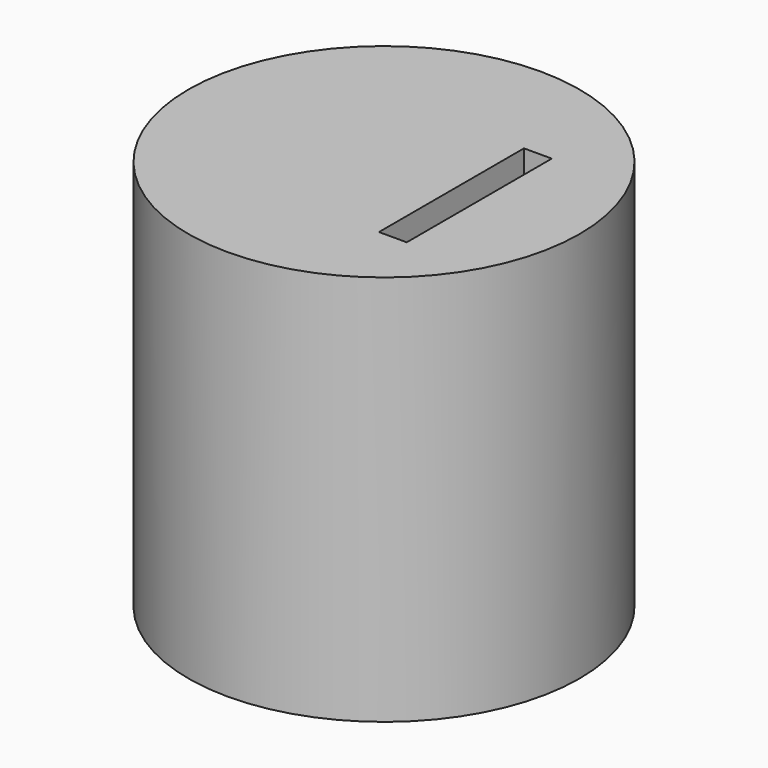
from build123d import *

# Parameters (mm, degrees)
F0_R     = 29.972
F0_W     = 29.6613248065
F0_H     = 27.7720661834
F1_DEPTH = 59.944
F2_DEPTH = 25.4


with BuildPart() as f1:
    # F0 (on Top) → F1 (new body)
    with BuildSketch(Plane.XY):
        Circle(F0_R)
        with Locations((0.330620911, -0.7084705867)):
            Rectangle(F0_W, F0_H, mode=Mode.SUBTRACT)
    extrude(amount=F1_DEPTH)

    # F2 (add): a face of the model
    f2_faces = [f1.faces().sort_by_distance(p)[0] for p in [
        (-14.5000414923, -0.7084705867, 29.972),
    ]]
    extrude(f2_faces, amount=F2_DEPTH)


solid = f1.part
